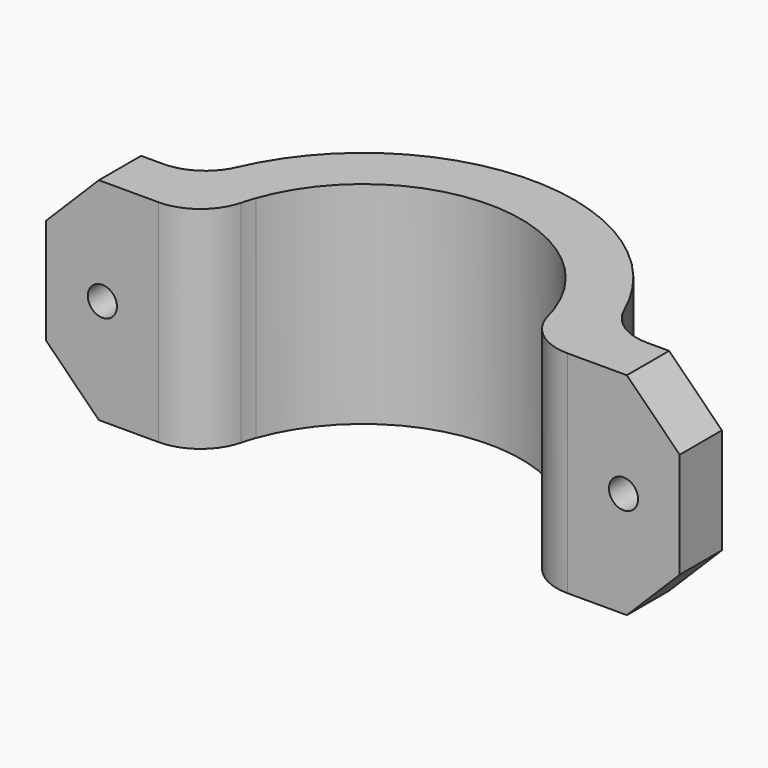
from build123d import *

# Parameters (mm, degrees)
F1_DEPTH  = 50.8
F3_DEPTH  = 12.7
F4_SIZE   = 12.7
F5_R      = 11.35
F5_R_2    = 10
F6_DEPTH  = 44.45
F7_R      = 12.7
F8_R      = 3.5
F9_DEPTH  = 50.801
F10_W     = 183.8439181447
F10_H     = 157.3934331536
F11_DEPTH = 114.3
F12_R     = 12.7


with BuildPart() as f1:
    # F0 (on Top) → F1 (new body)
    with BuildSketch(Plane.XY):
        with BuildLine():
            ThreePointArc((-35.9210244843, 12.7), (0, 38.1), (35.9210244843, 12.7))
            Line((35.9210244843, 12.7), (49.1868884968, 12.7))
            ThreePointArc((49.1868884968, 12.7), (0, 50.8), (-49.1868884968, 12.7))
            Line((-49.1868884968, 12.7), (-35.9210244843, 12.7))
        make_face()
        with BuildLine():
            ThreePointArc((-49.1868884968, -12.7), (-50.8, 0), (-49.1868884968, 12.7))
            Line((-49.1868884968, 12.7), (-76.2, 12.7))
            Line((-76.2, 12.7), (-76.2, -12.7))
            Line((-76.2, -12.7), (-49.1868884968, -12.7))
        make_face()
        with BuildLine():
            ThreePointArc((-35.9210244843, -12.7), (-38.1, 0), (-35.9210244843, 12.7))
            Line((-35.9210244843, 12.7), (-49.1868884968, 12.7))
            ThreePointArc((-49.1868884968, 12.7), (-50.8, 0), (-49.1868884968, -12.7))
            Line((-49.1868884968, -12.7), (-35.9210244843, -12.7))
        make_face()
        with BuildLine():
            ThreePointArc((35.9210244843, 12.7), (37.5513051228, 6.4427853895), (38.1, 0))
            ThreePointArc((38.1, 0), (37.5513051228, -6.4427853895), (35.9210244843, -12.7))
            Line((35.9210244843, -12.7), (49.1868884968, -12.7))
            ThreePointArc((49.1868884968, -12.7), (50.3951085704, -6.4010180581), (50.8, 0))
            ThreePointArc((50.8, 0), (50.3951085704, 6.4010180581), (49.1868884968, 12.7))
            Line((49.1868884968, 12.7), (35.9210244843, 12.7))
        make_face()
        with BuildLine():
            Line((76.2, 12.7), (49.1868884968, 12.7))
            ThreePointArc((49.1868884968, 12.7), (50.3951085704, 6.4010180581), (50.8, 0))
            ThreePointArc((50.8, 0), (50.3951085704, -6.4010180581), (49.1868884968, -12.7))
            Line((49.1868884968, -12.7), (76.2, -12.7))
            Line((76.2, -12.7), (76.2, 12.7))
        make_face()
        with BuildLine():
            ThreePointArc((-19.05, -32.9955678842), (-29.2989914869, -24.3552683798), (-35.9210244843, -12.7))
            Line((-35.9210244843, -12.7), (-49.1868884968, -12.7))
            ThreePointArc((-49.1868884968, -12.7), (-38.2071387235, -33.479165918), (-19.05, -47.0928603931))
            Line((-19.05, -47.0928603931), (-19.05, -32.9955678842))
        make_face()
        with BuildLine():
            Line((49.1868884968, -12.7), (35.9210244843, -12.7))
            ThreePointArc((35.9210244843, -12.7), (29.2989914869, -24.3552683798), (19.05, -32.9955678842))
            Line((19.05, -32.9955678842), (19.05, -47.0928603931))
            ThreePointArc((19.05, -47.0928603931), (38.2071387235, -33.479165918), (49.1868884968, -12.7))
        make_face()
        with BuildLine():
            Line((19.05, -47.0928603931), (19.05, -32.9955678842))
            ThreePointArc((19.05, -32.9955678842), (0, -38.1), (-19.05, -32.9955678842))
            Line((-19.05, -32.9955678842), (-19.05, -47.0928603931))
            ThreePointArc((-19.05, -47.0928603931), (0, -50.8), (19.05, -47.0928603931))
        make_face()
        with BuildLine():
            Line((19.05, -88.9), (19.05, -47.0928603931))
            ThreePointArc((19.05, -47.0928603931), (0, -50.8), (-19.05, -47.0928603931))
            Line((-19.05, -47.0928603931), (-19.05, -88.9))
            Line((-19.05, -88.9), (19.05, -88.9))
        make_face()
    extrude(amount=F1_DEPTH)

    # F2 (on face) → F3 (cut)
    with BuildSketch(Plane.XZ.offset(12.7)):
        Polygon((-55.6935602012, 25.3597094836), (-59.1586096141, 31.4419321502), (-66.1584936613, 31.4822226666), (-69.6933282956, 25.4402905164), (-66.2282788827, 19.3580678498), (-59.2283948355, 19.3177773334), align=None)
        Polygon((59.1938884968, 31.4621778265), (55.6938884968, 25.4), (59.1938884968, 19.3378221735), (66.1938884968, 19.3378221735), (69.6938884968, 25.4), (66.1938884968, 31.4621778265), align=None)
    extrude(amount=-F3_DEPTH, mode=Mode.SUBTRACT)

    # F4
    f4_edges = [f1.edges().sort_by_distance(p)[0] for p in [
        (-76.2, 0, 50.8),
        (-76.2, 0, 0),
        (76.2, 0, 50.8),
        (76.2, 0, 0),
    ]]
    chamfer(f4_edges, length=F4_SIZE)

    # F5 (on face) → F6 (cut)
    with BuildSketch(Plane.XY.offset(50.8)):
        with Locations((0, -67.9964301965)):
            Circle(F5_R)
        with Locations((0, -67.9964301965)):
            Circle(F5_R_2, mode=Mode.SUBTRACT)
    extrude(amount=-F6_DEPTH, mode=Mode.SUBTRACT)

    # F7
    f7_edges = [f1.edges().sort_by_distance(p)[0] for p in [
        (-19.05, -88.9, 25.4),
        (19.05, -88.9, 25.4),
        (-19.05, -47.09286, 25.4),
        (19.05, -47.09286, 25.4),
        (49.186888, -12.7, 25.4),
        (-49.186888, -12.7, 25.4),
        (-49.186888, 12.7, 25.4),
        (49.186888, 12.7, 25.4),
    ]]
    fillet(f7_edges, radius=F7_R)

    # F8 (on face) → F9 (cut, through all)
    with BuildSketch(Plane.XZ):
        with Locations((-62.6585516377, 25.4402905164)):
            Circle(F8_R)
        with Locations((62.6938884968, 25.4402905164)):
            Circle(F8_R)
    extrude(amount=-F9_DEPTH, mode=Mode.SUBTRACT)

    # F10 (on Front) → F11 (cut)
    with BuildSketch(Plane.XZ):
        with Locations((-6.0164444149, -2.5229565799)):
            Rectangle(F10_W, F10_H)
    extrude(amount=F11_DEPTH, mode=Mode.SUBTRACT)

    # F12
    f12_edges = [f1.edges().sort_by_distance(p)[0] for p in [
        (-38.1, 0, 25.4),
        (38.1, 0, 25.4),
    ]]
    fillet(f12_edges, radius=F12_R)


solid = f1.part
